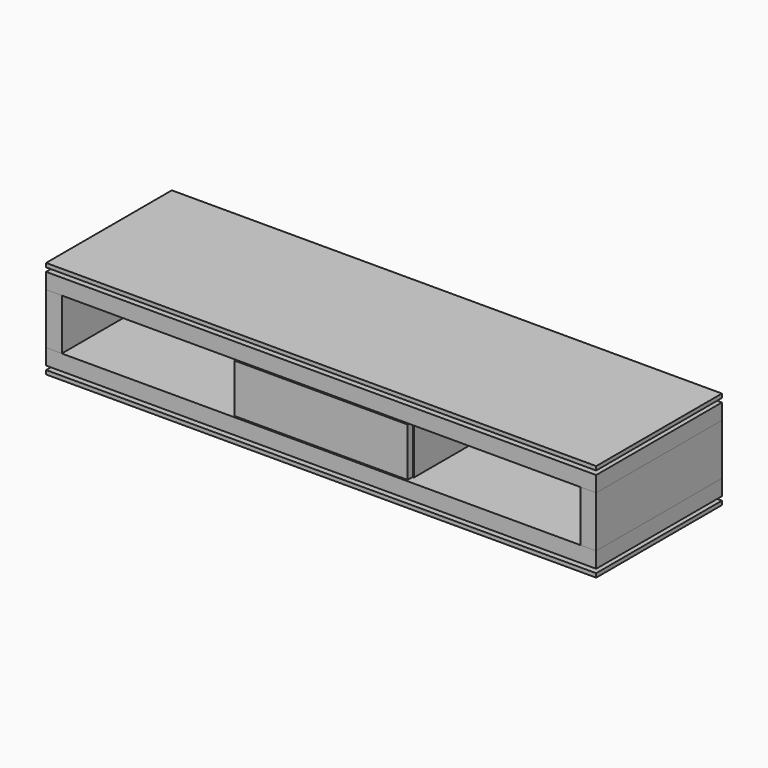
from build123d import *

# Parameters (mm, degrees)
F0_W          = 680
F0_H          = 10
F1_DEPTH      = 180
F1_DEPTH_BACK = 180
F2_DEPTH      = 200
F2_DEPTH_BACK = 200
F0_W_2        = 40
F0_H_2        = 130
F3_DEPTH      = 200
F3_DEPTH_BACK = 200
F4_START      = 182
F0_W_3        = 440
F0_H_3        = 124
F4_DEPTH      = 18
F0_H_4        = 3
F5_DEPTH      = 180
F5_DEPTH_BACK = 200


with BuildPart() as f1:
    # F0 (on Front) → F1 (new body, two sides)
    with BuildSketch(Plane.XZ) as f1_sk:
        with Locations((-340, 235)):
            Rectangle(F0_W, F0_H)
        with Locations((340, 235)):
            Rectangle(F0_W, F0_H)
    extrude(amount=F1_DEPTH)
    extrude(f1_sk.sketch, amount=-F1_DEPTH_BACK)


with BuildPart() as f1b:
    # F0 (on Front) → F1, piece 2 (new body, two sides)
    with BuildSketch(Plane.XZ) as f1_2_sk:
        with Locations((-340, 15)):
            Rectangle(F0_W, F0_H)
        with Locations((340, 15)):
            Rectangle(F0_W, F0_H)
    extrude(amount=F1_DEPTH)
    extrude(f1_2_sk.sketch, amount=-F1_DEPTH_BACK)


with BuildPart() as f2:
    # F0 (on Front) → F2 (new body, two sides)
    with BuildSketch(Plane.XZ) as f2_sk:
        Polygon((-680, 10), (-700, 10), (-700, 0), (700, 0), (700, 10), (680, 10), (0, 10), align=None)
    extrude(amount=F2_DEPTH)
    extrude(f2_sk.sketch, amount=-F2_DEPTH_BACK)


with BuildPart() as f2b:
    # F0 (on Front) → F2, piece 2 (new body, two sides)
    with BuildSketch(Plane.XZ) as f2_2_sk:
        with Locations((-680, 125)):
            Rectangle(F0_W_2, F0_H_2)
    extrude(amount=F2_DEPTH)
    extrude(f2_2_sk.sketch, amount=-F2_DEPTH_BACK)


with BuildPart() as f2c:
    # F0 (on Front) → F2, piece 3 (new body, two sides)
    with BuildSketch(Plane.XZ) as f2_3_sk:
        with Locations((680, 125)):
            Rectangle(F0_W_2, F0_H_2)
    extrude(amount=F2_DEPTH)
    extrude(f2_3_sk.sketch, amount=-F2_DEPTH_BACK)


with BuildPart() as f2d:
    # F0 (on Front) → F2, piece 4 (new body, two sides)
    with BuildSketch(Plane.XZ) as f2_4_sk:
        Polygon((0, 250), (0, 240), (680, 240), (700, 240), (700, 250), align=None)
        Polygon((-700, 240), (-680, 240), (0, 240), (0, 250), (-700, 250), align=None)
    extrude(amount=F2_DEPTH)
    extrude(f2_4_sk.sketch, amount=-F2_DEPTH_BACK)


with BuildPart() as f3:
    # F0 (on Front) → F3 (new body, two sides)
    with BuildSketch(Plane.XZ) as f3_sk:
        Polygon((-700, 230), (-700, 190), (-660, 190), (-220, 190), (220, 190), (660, 190), (700, 190), (700, 230), (680, 230), (0, 230), (-680, 230), align=None)
    extrude(amount=F3_DEPTH)
    extrude(f3_sk.sketch, amount=-F3_DEPTH_BACK)


with BuildPart() as f3b:
    # F0 (on Front) → F3, piece 2 (new body, two sides)
    with BuildSketch(Plane.XZ) as f3_2_sk:
        Polygon((-700, 20), (-680, 20), (0, 20), (0, 60), (-220, 60), (-660, 60), (-700, 60), align=None)
        Polygon((0, 60), (0, 20), (680, 20), (700, 20), (700, 60), (660, 60), (220, 60), align=None)
    extrude(amount=F3_DEPTH)
    extrude(f3_2_sk.sketch, amount=-F3_DEPTH_BACK)


with BuildPart() as f4:
    # F0 (on Front) → F4 (new body)
    with BuildSketch(Plane.XZ.offset(F4_START)):
        with Locations((0, 125)):
            Rectangle(F0_W_3, F0_H_3)
    extrude(amount=F4_DEPTH)


with BuildPart() as f5:
    # F0 (on Front) → F5 (new body, two sides)
    with BuildSketch(Plane.XZ) as f5_sk:
        with Locations((0, 125)):
            Rectangle(F0_W_3, F0_H_3)
        Polygon((-220, 60), (0, 60), (220, 60), (220, 63), (-220, 63), align=None)
        with Locations((0, 188.5)):
            Rectangle(F0_W_3, F0_H_4)
    extrude(amount=F5_DEPTH)
    extrude(f5_sk.sketch, amount=-F5_DEPTH_BACK)


solid = Compound([f1.part, f1b.part, f2.part, f2b.part, f2c.part, f2d.part, f3.part, f3b.part, f4.part, f5.part])
